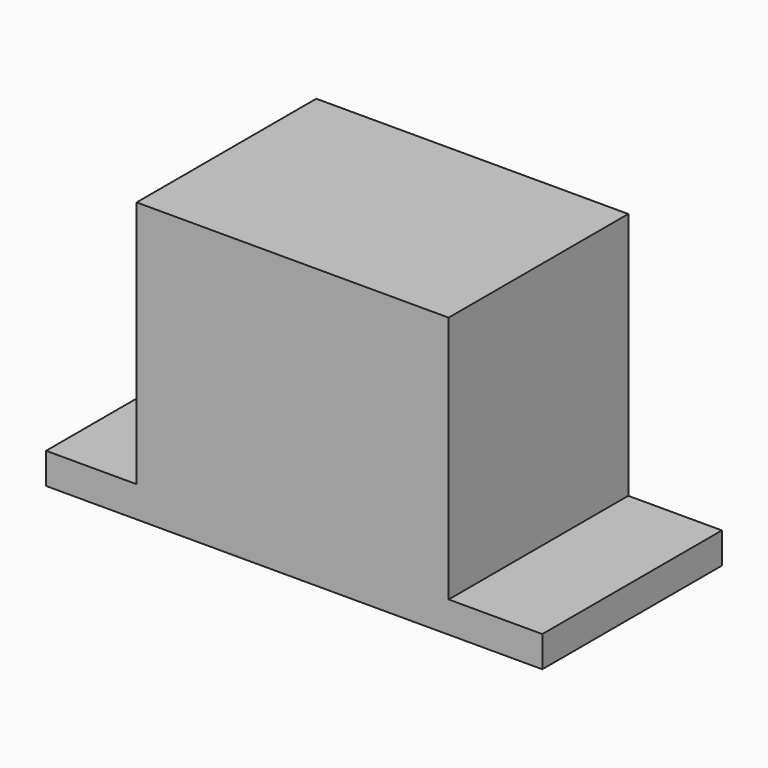
from build123d import *

# Parameters (mm, degrees)
F0_W      = 152.4
F0_H      = 114.3
F1_DEPTH  = 91.948
F2_W      = 91.948
F2_H      = 101.6
F3_DEPTH  = 37.084
F4_W      = 91.948
F4_H      = 101.6
F5_DEPTH  = 37.084
F6_DEPTH  = 24.13
F7_DEPTH  = 25.4
F8_DEPTH  = 25.4
F9_DEPTH  = 25.4
F12_DEPTH = 86.36


with BuildPart() as f1:
    # F0 (on Front) → F1 (new body)
    with BuildSketch(Plane.XZ):
        Rectangle(F0_W, F0_H)
    extrude(amount=-F1_DEPTH)

    # F2 (on face) → F3 (cut)
    with BuildSketch(Plane.YZ.offset(76.2)):
        with Locations((45.974, 6.35)):
            Rectangle(F2_W, F2_H)
    extrude(amount=-F3_DEPTH, mode=Mode.SUBTRACT)

    # F4 (on face) → F5 (cut)
    with BuildSketch(Plane(origin=(-76.2, 0, 0), x_dir=(0, -1, 0), z_dir=(-1, 0, 0))):
        with Locations((-45.974, 6.35)):
            Rectangle(F4_W, F4_H)
    extrude(amount=-F5_DEPTH, mode=Mode.SUBTRACT)

    # F6 (add): a face of the model
    f6_faces = [f1.faces().sort_by_distance(p)[0] for p in [
        (39.116, 45.974, 6.35),
    ]]
    extrude(f6_faces, amount=F6_DEPTH)

    # F7 (add): a face of the model
    f7_faces = [f1.faces().sort_by_distance(p)[0] for p in [
        (-39.116, 45.974, 6.35),
    ]]
    extrude(f7_faces, amount=F7_DEPTH)

    # F8 (add): a face of the model
    f8_faces = [f1.faces().sort_by_distance(p)[0] for p in [
        (76.2, 45.974, -50.8),
    ]]
    extrude(f8_faces, amount=F8_DEPTH)

    # F9 (add): a face of the model
    f9_faces = [f1.faces().sort_by_distance(p)[0] for p in [
        (-76.2, 45.974, -50.8),
    ]]
    extrude(f9_faces, amount=F9_DEPTH)

    # F11 (on face) → F12 (cut)
    with BuildSketch(Plane(origin=(0, 0, -57.15), x_dir=(1, 0, 0), z_dir=(0, 0, -1))):
        Polygon((50.8, -69.2191192026), (50.8, -23.2451192026), (-50.8, -23.2451192026), (-50.8, -69.2191192026), (0, -69.2191192026), align=None)
    extrude(amount=-F12_DEPTH, mode=Mode.SUBTRACT)


solid = f1.part
